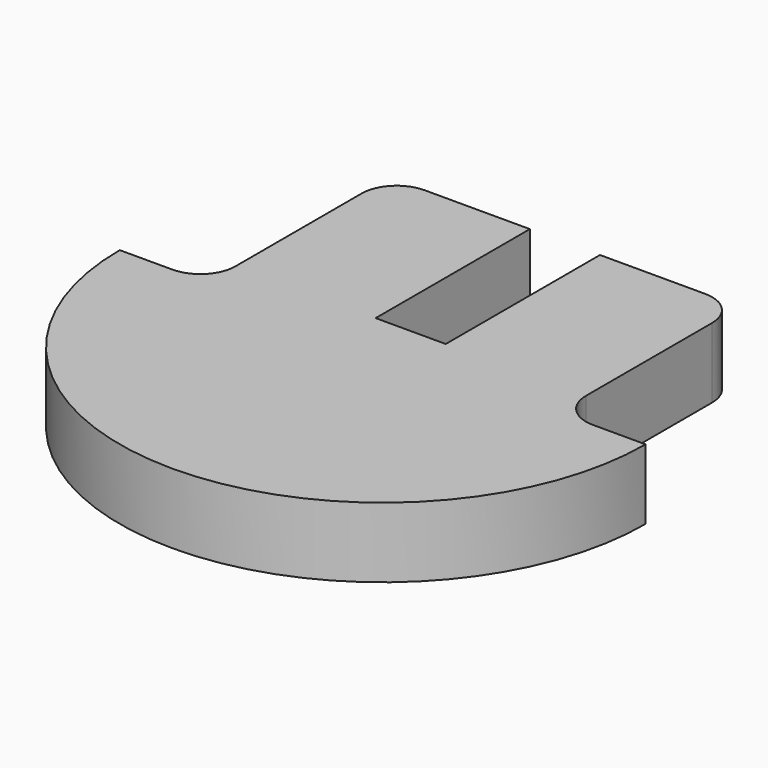
from build123d import *

# Parameters (mm, degrees)
F1_DEPTH = 2


with BuildPart() as f1:
    # F0 (on Top) → F1 (new body)
    with BuildSketch(Plane.XY):
        with BuildLine():
            Line((-6, 0), (-7.5, 0))
            ThreePointArc((-7.5, 0), (0, -7.5), (7.5, 0))
            Line((7.5, 0), (6, 0))
            ThreePointArc((6, 0), (5.292893, 0.292893), (5, 1))
            Line((5, 1), (5, 5.5))
            ThreePointArc((5, 5.5), (4.707107, 6.207107), (4, 6.5))
            Line((4, 6.5), (1, 6.5))
            Line((1, 6.5), (1, 1))
            Line((1, 1), (-1, 1))
            Line((-1, 1), (-1, 6.5))
            Line((-1, 6.5), (-4, 6.5))
            ThreePointArc((-4, 6.5), (-4.707107, 6.207107), (-5, 5.5))
            Line((-5, 5.5), (-5, 1))
            ThreePointArc((-5, 1), (-5.292893, 0.292893), (-6, 0))
        make_face()
    extrude(amount=F1_DEPTH)


solid = f1.part
